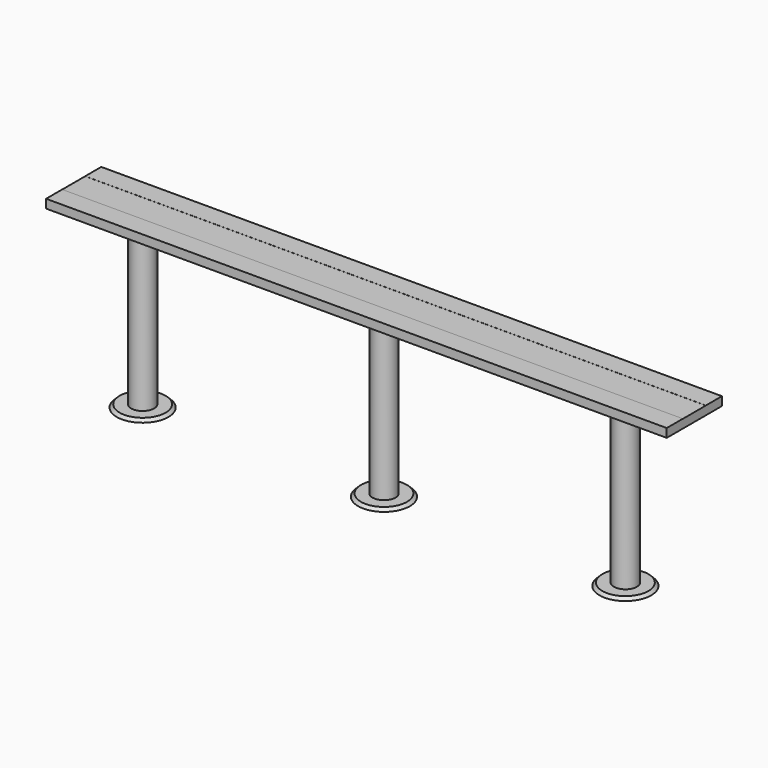
from build123d import *

# Parameters (mm, degrees)
F0_W     = 2743.2
F0_H     = 304.8
F1_DEPTH = 38.1
F2_R     = 50.8
F3_DEPTH = 736.6
F4_R     = 114.3
F5_DEPTH = 12.7
F5_TAPER = 45
F6_W     = 2743.2
F6_H     = 88.9
F7_DEPTH = 0.3175


with BuildPart() as f1:
    # F0 (on Top) → F1 (new body)
    with BuildSketch(Plane.XY):
        Rectangle(F0_W, F0_H)
    extrude(amount=F1_DEPTH)

    # F2 (on face) → F3 (join)
    with BuildSketch(Plane(origin=(0, 0, 0), x_dir=(1, 0, 0), z_dir=(0, 0, -1))):
        with Locations((-1066.8, 0)):
            Circle(F2_R)
        with Locations((1066.8, 0)):
            Circle(F2_R)
        Circle(F2_R)
    extrude(amount=F3_DEPTH)

    # F4 (on face) → F5 (join)
    with BuildSketch(Plane(origin=(0, 0, -736.6), x_dir=(1, 0, 0), z_dir=(0, 0, -1))):
        with Locations((-1066.8, 0)):
            Circle(F4_R)
        with Locations((1066.8, 0)):
            Circle(F4_R)
        Circle(F4_R)
    extrude(amount=-F5_DEPTH, taper=F5_TAPER)

    # F6 (on face) → F7 (join)
    with BuildSketch(Plane.XY.offset(38.1)):
        with Locations((0, 107.95)):
            Rectangle(F6_W, F6_H)
        with Locations((0, -107.95)):
            Rectangle(F6_W, F6_H)
    extrude(amount=F7_DEPTH)


solid = f1.part
